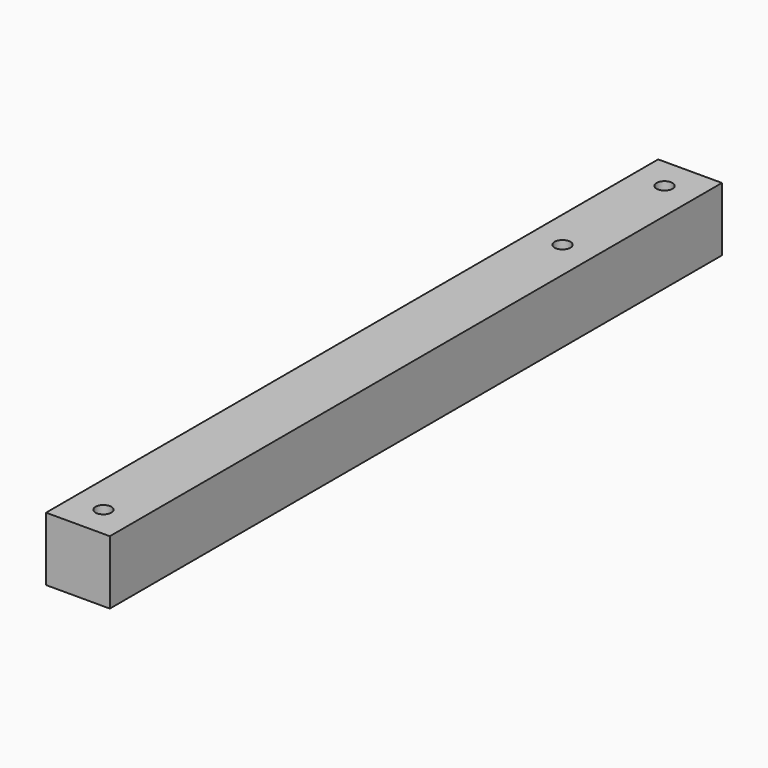
from build123d import *

# Parameters (mm, degrees)
F0_W     = 25.4
F0_H     = 304.8
F0_R     = 3.175
F1_DEPTH = 25.4


with BuildPart() as f1:
    # F0 (on Top) → F1 (new body)
    with BuildSketch(Plane.XY):
        with Locations((-12.7, -152.4)):
            Rectangle(F0_W, F0_H)
        with Locations((-12.7, -292.1)):
            Circle(F0_R, mode=Mode.SUBTRACT)
        with Locations((-12.7, -63.5)):
            Circle(F0_R, mode=Mode.SUBTRACT)
        with Locations((-12.7, -12.7)):
            Circle(F0_R, mode=Mode.SUBTRACT)
    extrude(amount=F1_DEPTH)


solid = f1.part
